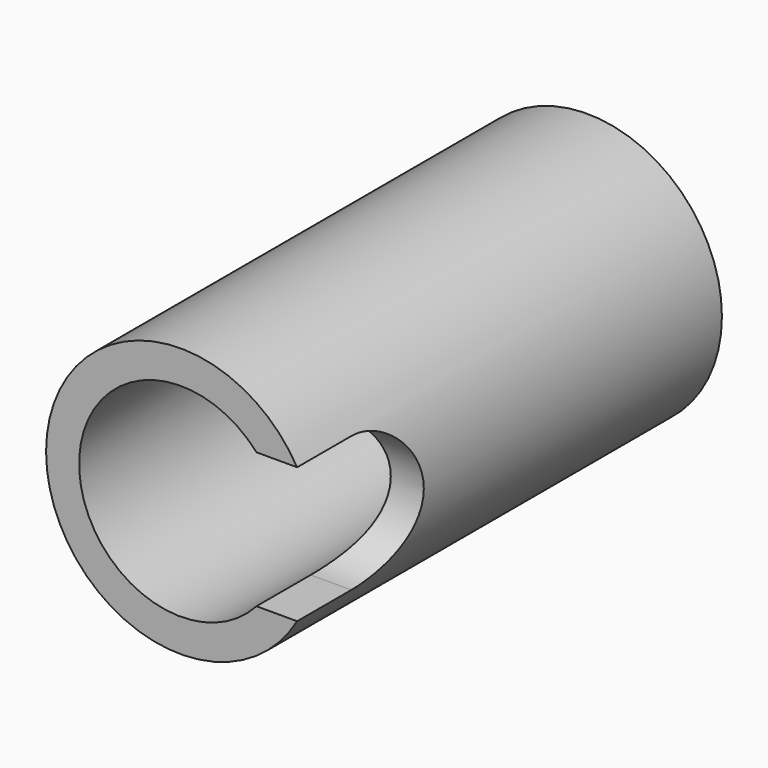
from build123d import *

# Parameters (mm, degrees)
F0_R     = 3.975
F0_R_2   = 3
F1_DEPTH = 15
F4_DEPTH = 3


with BuildPart() as f1:
    # F0 (on Front) → F1 (new body)
    with BuildSketch(Plane.XZ):
        Circle(F0_R)
        Circle(F0_R_2, mode=Mode.SUBTRACT)
    extrude(amount=F1_DEPTH)

    # F3 (on offset) → F4 (cut)
    with BuildSketch(Plane.YZ.offset(3.975)):
        with BuildLine():
            Line((-15, 2), (-15, -2))
            Line((-15, -2), (-13, -2))
            ThreePointArc((-13, -2), (-11, 0), (-13, 2))
            Line((-13, 2), (-15, 2))
        make_face()
    extrude(amount=-F4_DEPTH, mode=Mode.SUBTRACT)


solid = f1.part
